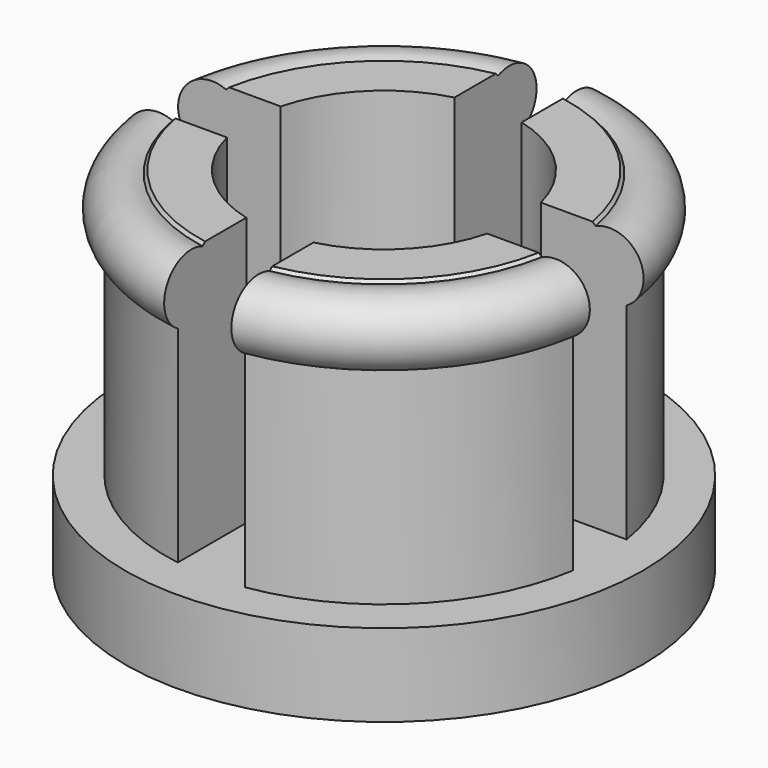
from build123d import *

# Parameters (mm, degrees)
BOX001_W          = 20
BOX001_H          = 2
BOX001_DEPTH      = 10
BOX_W             = 2
BOX_H             = 20
BOX_DEPTH         = 10
CYLINDER002_R     = 4
CYLINDER002_DEPTH = 10
TORUS_R           = 1
CYLINDER001_R     = 6.5
CYLINDER001_DEPTH = 10
CYLINDER_R        = 7.7
CYLINDER_DEPTH    = 4
CHAMFER_SIZE      = 1


with BuildPart() as cube001:
    # Box001 → Box001 (new body)
    with BuildSketch(Plane(origin=(-10, -1, 4), x_dir=(1, 0, 0), z_dir=(0, 0, 1))):
        with Locations((10, 1)):
            Rectangle(BOX001_W, BOX001_H)
    extrude(amount=BOX001_DEPTH)


with BuildPart() as cube:
    # Box → Box (new body)
    with BuildSketch(Plane(origin=(-1, -10, 4), x_dir=(1, 0, 0), z_dir=(0, 0, 1))):
        with Locations((1, 10)):
            Rectangle(BOX_W, BOX_H)
    extrude(amount=BOX_DEPTH)


with BuildPart() as fusion002:
    # Cylinder002 → Cylinder002 (new body)
    with BuildSketch(Plane.XY.offset(4)):
        Circle(CYLINDER002_R)
    extrude(amount=CYLINDER002_DEPTH)

    # Fusion002: union Cube001, Cube
    add(cube001.part)
    add(cube.part)


with BuildPart() as torus:
    # Torus → Torus (revolve)
    with BuildSketch(Plane(origin=(0, 0, 11), x_dir=(1, 0, 0), z_dir=(0, -1, 0))):
        with Locations((6, 0)):
            Circle(TORUS_R)
    revolve(axis=Axis((0, 0, 11), (0, 0, 1)))


with BuildPart() as cylinder001:
    # Cylinder001 → Cylinder001 (new body)
    with BuildSketch(Plane.XY.offset(2)):
        Circle(CYLINDER001_R)
    extrude(amount=CYLINDER001_DEPTH)


with BuildPart() as cylinder:
    # Cylinder → Cylinder (new body)
    with BuildSketch(Plane.XY):
        Circle(CYLINDER_R)
    extrude(amount=CYLINDER_DEPTH)


with BuildPart() as obj1:
    # Sphere → Sphere (revolve)
    with BuildSketch(Plane(origin=(0, 0, 20), x_dir=(1, 0, 0), z_dir=(0, -1, 0))):
        with BuildLine():
            ThreePointArc((0, -20), (20, 0), (0, 20))
            Line((0, 20), (0, -20))
        make_face()
    revolve(axis=Axis((0, 0, 20), (0, 0, 1)))

    # Common: intersect Cylinder
    add(cylinder.part, mode=Mode.INTERSECT)

    # Fusion: union Cylinder001
    add(cylinder001.part)

    # Chamfer
    chamfer_edges = [obj1.edges().sort_by_distance(p)[0] for p in [
        (-6.5, 0, 12),
    ]]
    chamfer(chamfer_edges, length=CHAMFER_SIZE)

    # Fusion001: union Torus
    add(torus.part)

    # Cut: cut Fusion002
    add(fusion002.part, mode=Mode.SUBTRACT)


solid = obj1.part
